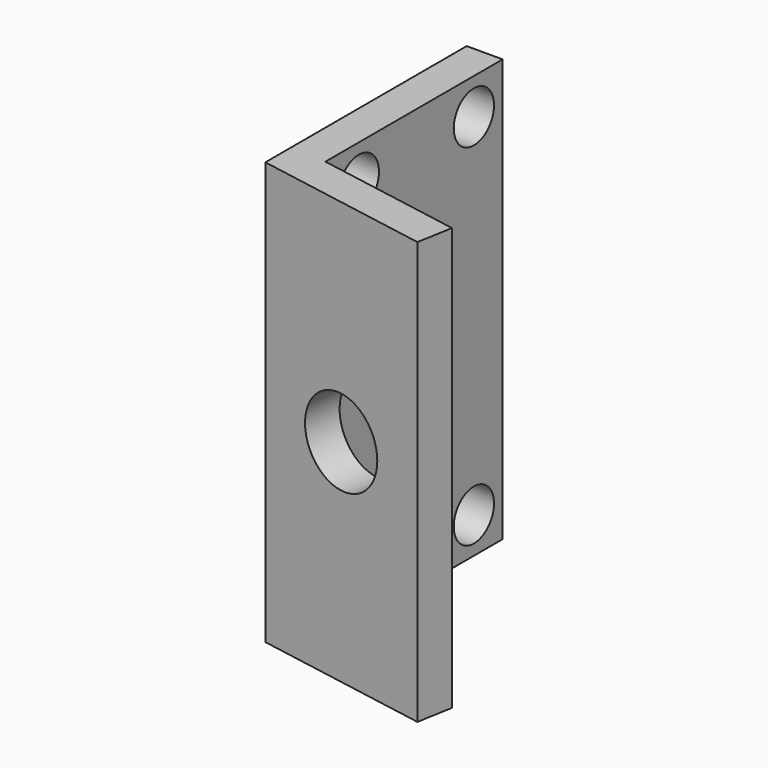
from build123d import *

# Parameters (mm, degrees)
CYLINDER017_R               = 2.8
CYLINDER017_DEPTH           = 60
CYLINDER016_R               = 2.8
CYLINDER016_DEPTH           = 60
CYLINDER022_R               = 2.8
CYLINDER022_DEPTH           = 60
CYLINDER021_R               = 2.8
CYLINDER021_DEPTH           = 60
CYLINDER026_R               = 4.75
CYLINDER026_DEPTH           = 16
CYLINDER026_ROLL_ANGLE      = -89.999776
CYLINDER026_PITCH_ANGLE     = 1.4e-05
CYLINDER026_PLACEMENT_ANGLE = -9.999925
PAD006_DEPTH                = 47


with BuildPart() as u006:
    # Cylinder017 → Cylinder017 (new body)
    with BuildSketch(Plane(origin=(41, -20, -3), x_dir=(0, 0, 1), z_dir=(-1, 0, 0))):
        Circle(CYLINDER017_R)
    extrude(amount=CYLINDER017_DEPTH)


with BuildPart() as u005:
    # Cylinder016 → Cylinder016 (new body)
    with BuildSketch(Plane(origin=(41, -4, -3), x_dir=(0, 0, 1), z_dir=(-1, 0, 0))):
        Circle(CYLINDER016_R)
    extrude(amount=CYLINDER016_DEPTH)


with BuildPart() as o006:
    # Cylinder022 → Cylinder022 (new body)
    with BuildSketch(Plane(origin=(41, -4, 36), x_dir=(0, 0, 1), z_dir=(-1, 0, 0))):
        Circle(CYLINDER022_R)
    extrude(amount=CYLINDER022_DEPTH)


with BuildPart() as o005:
    # Cylinder021 → Cylinder021 (new body)
    with BuildSketch(Plane(origin=(41, -20, 36), x_dir=(0, 0, 1), z_dir=(-1, 0, 0))):
        Circle(CYLINDER021_R)
    extrude(amount=CYLINDER021_DEPTH)


with BuildPart() as cylinder026:
    # Cylinder026 → Cylinder026 (new body)
    with BuildSketch(Plane.XY):
        Circle(CYLINDER026_R)
    extrude(amount=CYLINDER026_DEPTH)


with BuildPart() as cylinder026_1:
    # Cylinder026 roll: moved
    add(cylinder026.part.rotate(Axis((0, 0, 0), (1, 0, 0)), CYLINDER026_ROLL_ANGLE))


with BuildPart() as cylinder026_2:
    # Cylinder026 pitch: moved
    add(cylinder026_1.part.rotate(Axis((0, 0, 0), (0, 1, 0)), CYLINDER026_PITCH_ANGLE))


with BuildPart() as cylinder026_3:
    # Cylinder026 placement: moved
    add(cylinder026_2.part.moved(Location((33.913531, -36.278084, 16.499961))).rotate(Axis((33.913531, -36.278084, 16.499961), (0, 0, 1)), CYLINDER026_PLACEMENT_ANGLE))


with BuildPart() as cut027:
    # Sketch006 → Pad006 (new body)
    with BuildSketch(Plane.XY):
        Polygon((29.25, 0), (25.25, 0), (25.25, -28), (44.946155, -31.472964), (45.640748, -27.533733), (29.25, -24.643601), align=None)
    extrude(amount=PAD006_DEPTH)


with BuildPart() as cut027_1:
    # Body006 placement: moved
    add(cut027.part.moved(Location((0, 0, -7))))

    # Cut021: cut Cylinder026
    add(cylinder026_3.part, mode=Mode.SUBTRACT)

    # Cut024: cut O005
    add(o005.part, mode=Mode.SUBTRACT)

    # Cut025: cut O006
    add(o006.part, mode=Mode.SUBTRACT)

    # Cut026: cut U005
    add(u005.part, mode=Mode.SUBTRACT)

    # Cut027: cut U006
    add(u006.part, mode=Mode.SUBTRACT)


solid = cut027_1.part
